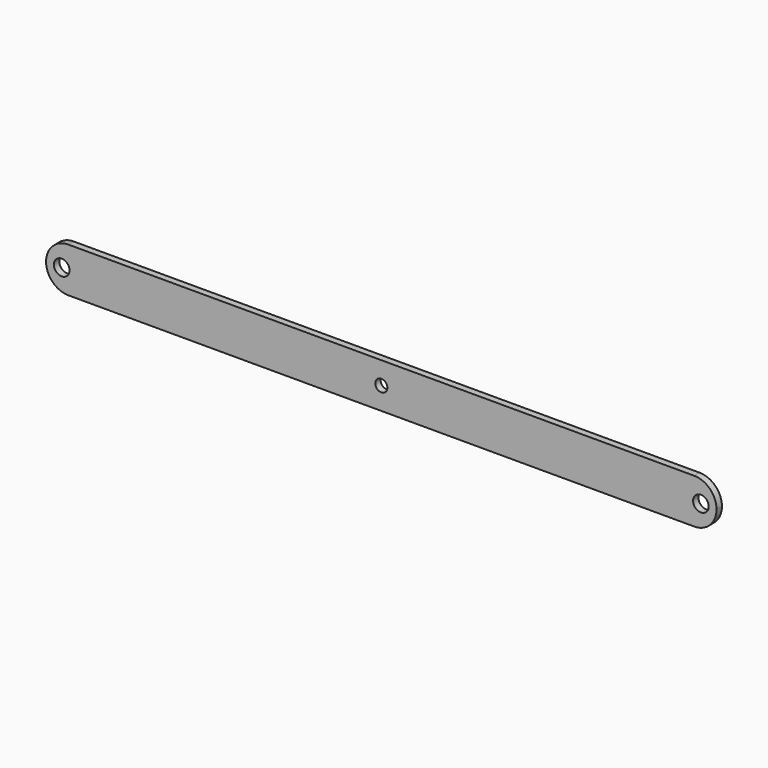
from build123d import *

# Parameters (mm, degrees)
F0_R     = 3.5
F0_R_2   = 2.701127
F1_DEPTH = 3


with BuildPart() as f1:
    # F0 (on Front) → F1 (new body)
    with BuildSketch(Plane.XZ):
        with BuildLine():
            Line((139.937017, 10), (-140.062983, 10))
            ThreePointArc((-140.062983, 10), (-147.13405, 7.071068), (-150.062983, 0))
            ThreePointArc((-150.062983, 0), (-147.13405, -7.071068), (-140.062983, -10))
            Line((-140.062983, -10), (139.937017, -10))
            ThreePointArc((139.937017, -10), (147.008085, -7.071068), (149.937017, 0))
            ThreePointArc((149.937017, 0), (147.008085, 7.071068), (139.937017, 10))
        make_face()
        with Locations((-143.062983, 0)):
            Circle(F0_R, mode=Mode.SUBTRACT)
        with Locations((-0.062983, 0)):
            Circle(F0_R_2, mode=Mode.SUBTRACT)
        with Locations((142.937017, 0)):
            Circle(F0_R, mode=Mode.SUBTRACT)
    extrude(amount=F1_DEPTH)


solid = f1.part
